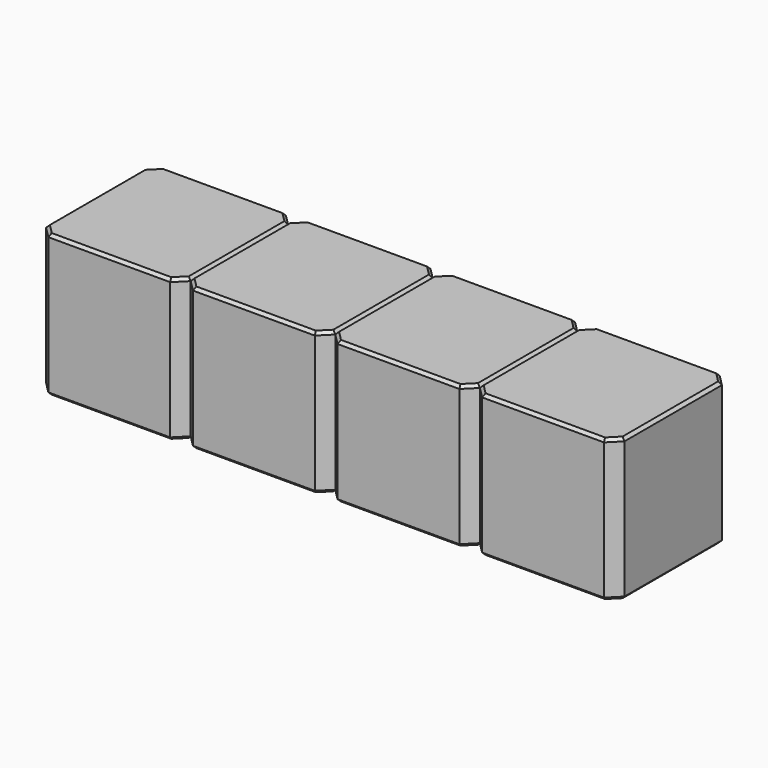
from build123d import *

# Parameters (mm, degrees)
SKETCH214_W      = 2.54
SKETCH214_H      = 2.54
PAD069_DEPTH     = 2.5
CHAMFER021_SIZE  = 0.2
CHAMFER022_SIZE  = 0.05
ARRAY005_X_COUNT = 4
ARRAY005_X_PITCH = 2.54


with BuildPart() as array005:
    # Sketch214 → Pad069 (new body)
    with BuildSketch(Plane.XY):
        Rectangle(SKETCH214_W, SKETCH214_H)
    extrude(amount=PAD069_DEPTH)

    # Chamfer021
    chamfer021_edges = [array005.edges().sort_by_distance(p)[0] for p in [
        (1.27, -1.27, 1.25),
        (-1.27, -1.27, 1.25),
        (1.27, 1.27, 1.25),
        (-1.27, 1.27, 1.25),
    ]]
    chamfer(chamfer021_edges, length=CHAMFER021_SIZE)

    # Chamfer022
    chamfer022_edges = [array005.edges().sort_by_distance(p)[0] for p in [
        (0, -1.27, 2.5),
        (-1.17, -1.17, 2.5),
        (1.17, -1.17, 2.5),
        (-1.27, 0, 2.5),
        (1.27, 0, 2.5),
        (-1.17, 1.17, 2.5),
        (1.17, 1.17, 2.5),
        (0, 1.27, 2.5),
        (0, -1.27, 0),
        (-1.17, -1.17, 0),
        (1.17, -1.17, 0),
        (-1.27, 0, 0),
        (1.27, 0, 0),
        (-1.17, 1.17, 0),
        (1.17, 1.17, 0),
        (0, 1.27, 0),
    ]]
    chamfer(chamfer022_edges, length=CHAMFER022_SIZE)


with BuildPart() as array005_copy1:
    # Array005 X: instance of Array005
    add(array005.part.moved(Location(Vector(1, 0, 0) * (1 * ARRAY005_X_PITCH))))


with BuildPart() as array005_copy2:
    # Array005 X: instance of Array005
    add(array005.part.moved(Location(Vector(1, 0, 0) * (2 * ARRAY005_X_PITCH))))


with BuildPart() as array005_copy3:
    # Array005 X: instance of Array005
    add(array005.part.moved(Location(Vector(1, 0, 0) * (3 * ARRAY005_X_PITCH))))


solid = Compound([array005.part, array005_copy1.part, array005_copy2.part, array005_copy3.part])
